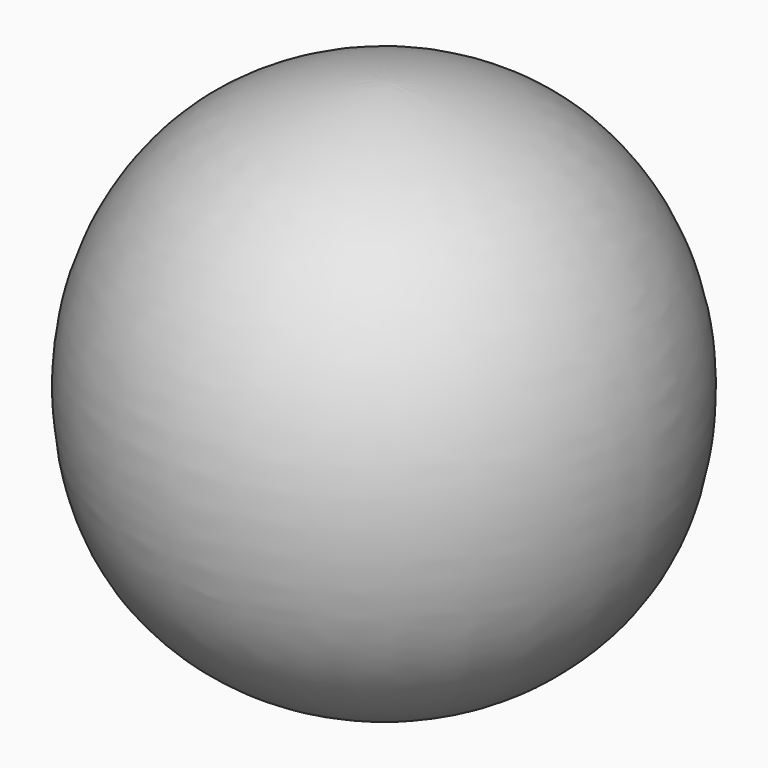
from build123d import *


with BuildPart() as f1:
    # F0 (on Front) → F1 (revolve)
    with BuildSketch(Plane.XZ):
        with BuildLine():
            Line((1.35255, 12.7), (1.35255, 0))
            Line((1.35255, 0), (3.81, 0))
            add(Edge.make_bspline(
                [(3.81, 0), (5.7103510496, 0), (11.0476554315, 1.6848743916), (17.760647439, 8.3982261221), (19.5561904334, 17.989843303), (18.2958398926, 25.3735565008), (15.0858149108, 31.2201708759), (9.880858129, 35.9730835319), (3.0564195196, 38.1), (0, 38.1)],
                knots=[0, 0, 0, 0, 0.1334856775, 0.287652189, 0.442900171, 0.5800828425, 0.7074340674, 0.8410975899, 1, 1, 1, 1], degree=3))
            Line((0, 38.1), (0, 12.7))
            Line((0, 12.7), (1.35255, 12.7))
        make_face()
    revolve(axis=Axis((0, 0, 25.4), (0, 0, -1)))


solid = f1.part
